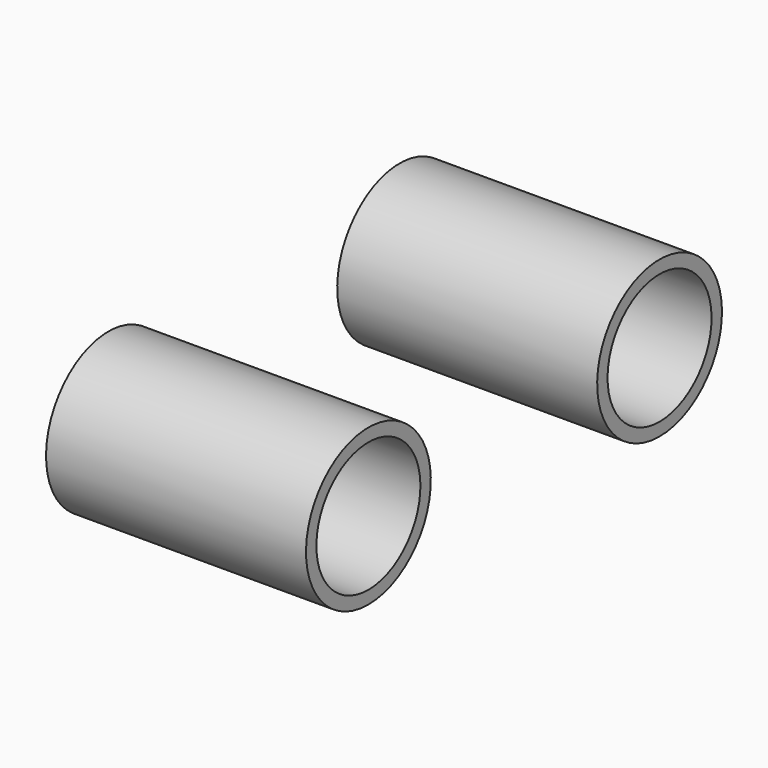
from build123d import *

# Parameters (mm, degrees)
CYLINDER_R              = 2.5
CYLINDER_DEPTH          = 10
CYLINDER_PITCH_ANGLE    = 90
CYLINDER002_R           = 3
CYLINDER002_DEPTH       = 10
CYLINDER002_PITCH_ANGLE = 90
CYLINDER001_R           = 2.5
CYLINDER001_DEPTH       = 10
CYLINDER001_PITCH_ANGLE = 90
CYLINDER003_R           = 3
CYLINDER003_DEPTH       = 10
CYLINDER003_PITCH_ANGLE = 90


with BuildPart() as cilindro:
    # Cylinder → Cylinder (new body)
    with BuildSketch(Plane.XY):
        Circle(CYLINDER_R)
    extrude(amount=CYLINDER_DEPTH)


with BuildPart() as cilindro_1:
    # Cylinder pitch: moved
    add(cilindro.part.rotate(Axis((0, 0, 0), (0, 1, 0)), CYLINDER_PITCH_ANGLE))


with BuildPart() as cilindro_2:
    # Cylinder placement: moved
    add(cilindro_1.part.moved(Location((-3, 9, 5))))


with BuildPart() as cut001:
    # Cylinder002 → Cylinder002 (new body)
    with BuildSketch(Plane.XY):
        Circle(CYLINDER002_R)
    extrude(amount=CYLINDER002_DEPTH)


with BuildPart() as cut001_1:
    # Cylinder002 pitch: moved
    add(cut001.part.rotate(Axis((0, 0, 0), (0, 1, 0)), CYLINDER002_PITCH_ANGLE))


with BuildPart() as cut001_2:
    # Cylinder002 placement: moved
    add(cut001_1.part.moved(Location((-3, 9, 5))))

    # Cut001: cut Cilindro
    add(cilindro_2.part, mode=Mode.SUBTRACT)


with BuildPart() as cilindro001:
    # Cylinder001 → Cylinder001 (new body)
    with BuildSketch(Plane.XY):
        Circle(CYLINDER001_R)
    extrude(amount=CYLINDER001_DEPTH)


with BuildPart() as cilindro001_1:
    # Cylinder001 pitch: moved
    add(cilindro001.part.rotate(Axis((0, 0, 0), (0, 1, 0)), CYLINDER001_PITCH_ANGLE))


with BuildPart() as cilindro001_2:
    # Cylinder001 placement: moved
    add(cilindro001_1.part.moved(Location((-3, 23, 5))))


with BuildPart() as jacks:
    # Cylinder003 → Cylinder003 (new body)
    with BuildSketch(Plane.XY):
        Circle(CYLINDER003_R)
    extrude(amount=CYLINDER003_DEPTH)


with BuildPart() as jacks_1:
    # Cylinder003 pitch: moved
    add(jacks.part.rotate(Axis((0, 0, 0), (0, 1, 0)), CYLINDER003_PITCH_ANGLE))


with BuildPart() as jacks_2:
    # Cylinder003 placement: moved
    add(jacks_1.part.moved(Location((-3, 23, 5))))

    # Cut: cut Cilindro001
    add(cilindro001_2.part, mode=Mode.SUBTRACT)

    # Fusion001: union Cut001
    add(cut001_2.part)


solid = jacks_2.part
